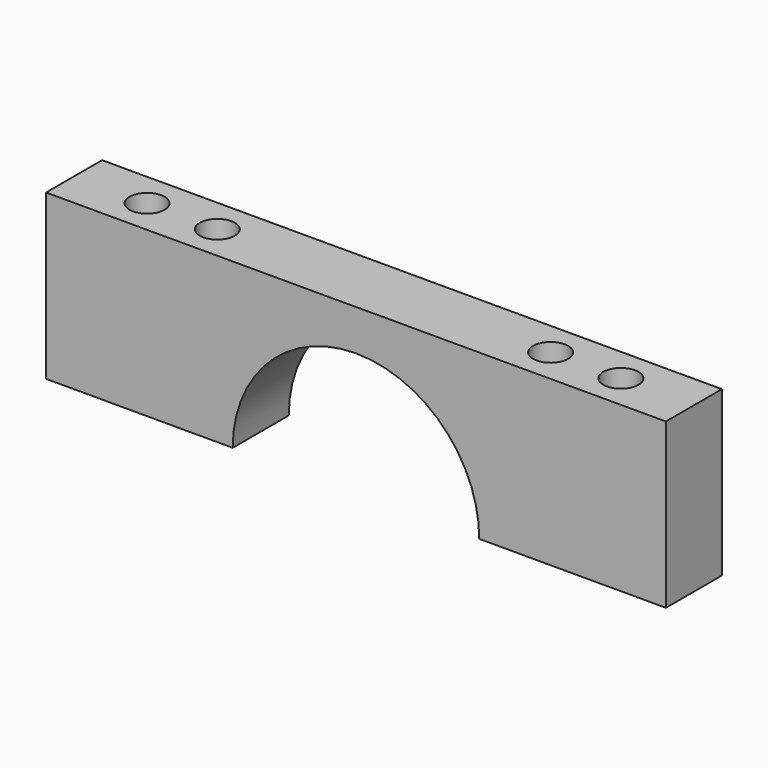
from build123d import *

# Parameters (mm, degrees)
F0_W     = 167.9194
F0_H     = 18.9738
F0_R     = 4.7625
F1_DEPTH = 44.45
F3_DEPTH = 25.4


with BuildPart() as f1:
    # F0 (on Top) → F1 (new body)
    with BuildSketch(Plane.XY):
        with Locations((-65.8830566523, -59.4004268664)):
            Rectangle(F0_W, F0_H)
        with Locations((-130.0781622228, -59.4004268664)):
            Circle(F0_R, mode=Mode.SUBTRACT)
        with Locations((-111.0281622228, -59.4004268664)):
            Circle(F0_R, mode=Mode.SUBTRACT)
        with Locations((-20.738337189, -59.4004876912)):
            Circle(F0_R, mode=Mode.SUBTRACT)
        with Locations((-1.6879510817, -59.4004268664)):
            Circle(F0_R, mode=Mode.SUBTRACT)
    extrude(amount=F1_DEPTH)

    # F2 (on face) → F3 (cut)
    with BuildSketch(Plane.XZ.offset(68.8873268664)):
        with BuildLine():
            Line((-99.2840566523, 0), (-32.4820566523, 0))
            ThreePointArc((-32.4820566523, 0), (-65.8830566523, 33.401), (-99.2840566523, 0))
        make_face()
    extrude(amount=-F3_DEPTH, mode=Mode.SUBTRACT)


solid = f1.part
